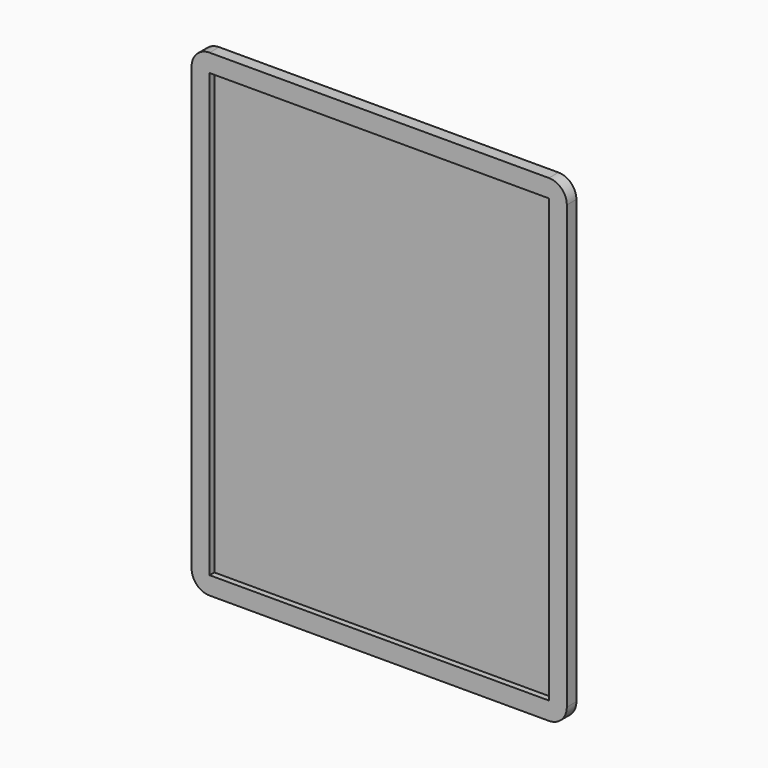
from build123d import *

# Parameters (mm, degrees)
F0_W     = 79.756
F0_H     = 101.6
F1_DEPTH = 1.27
F2_R     = 3.81
F3_W     = 72.136
F3_H     = 93.98
F4_DEPTH = 1.27


with BuildPart() as f1:
    # F0 (on Front) → F1 (new body, symmetric)
    with BuildSketch(Plane.XZ):
        Rectangle(F0_W, F0_H)
    extrude(amount=F1_DEPTH, both=True)

    # F2
    f2_edges = [f1.edges().sort_by_distance(p)[0] for p in [
        (-39.878, 0, 50.8),
        (39.878, 0, 50.8),
        (39.878, 0, -50.8),
        (-39.878, 0, -50.8),
    ]]
    fillet(f2_edges, radius=F2_R)

    # F3 (on face) → F4 (cut)
    with BuildSketch(Plane.XZ.offset(1.27)):
        Rectangle(F3_W, F3_H)
    extrude(amount=-F4_DEPTH, mode=Mode.SUBTRACT)


solid = f1.part
